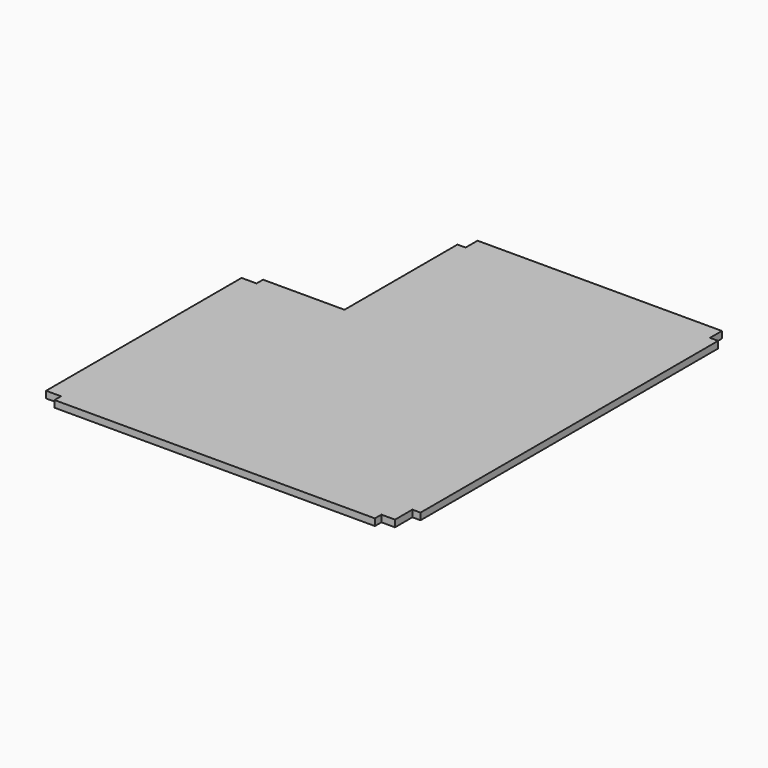
from build123d import *

# Parameters (mm, degrees)
F1_DEPTH = 15.875


with BuildPart() as f1:
    # F0 (on Top) → F1 (new body)
    with BuildSketch(Plane.XY):
        Polygon((-781.05, 0), (-31.75, 0), (-31.75, 19.05), (0, 19.05), (0, 69.85), (19.05, 69.85), (19.05, 939.8), (0, 939.8), (0, 974.725), (-571.5, 974.725), (-571.5, 939.8), (-590.55, 939.8), (-590.55, 609.6), (-781.05, 609.6), (-781.05, 590.55), (-815.975, 590.55), (-815.975, 19.05), (-781.05, 19.05), align=None)
    extrude(amount=F1_DEPTH)


solid = f1.part
